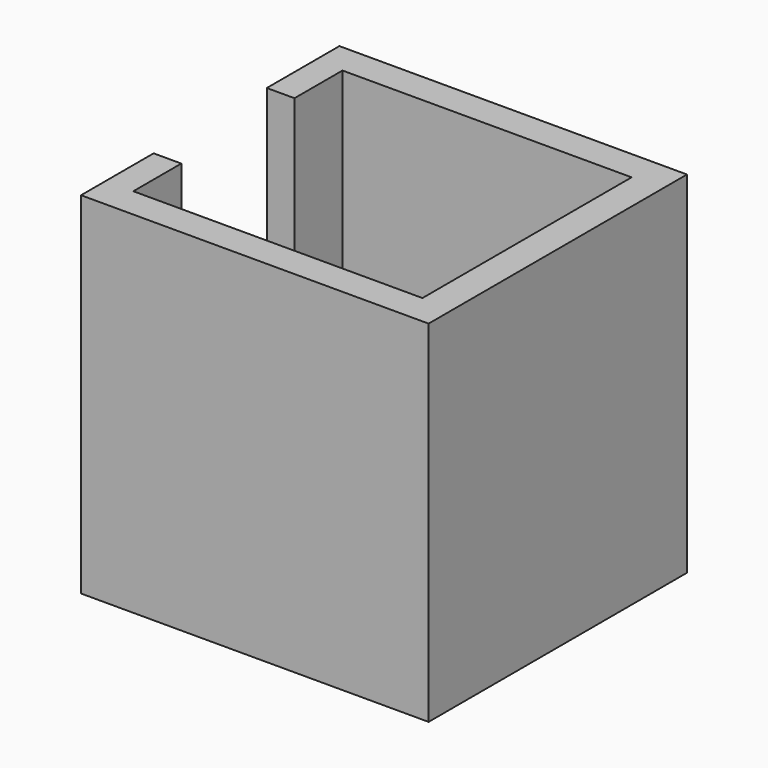
from build123d import *

# Parameters (mm, degrees)
SKETCH133_W             = 52.5
SKETCH133_H             = 56.5
SKETCH133_W_2           = 42.5
SKETCH133_H_2           = 47
PAD067_DEPTH            = 37
SKETCH131_W             = 23
SKETCH131_H             = 33
POCKET057_DEPTH         = 5
SKETCH135_W             = 52.5
SKETCH135_H             = 56.5
SKETCH135_W_2           = 47
SKETCH135_H_2           = 52
PAD066_DEPTH            = 20
BODY037_PLACEMENT_ANGLE = 90


with BuildPart() as part:
    # Sketch133 → Pad067 (new body)
    with BuildSketch(Plane.XY):
        with Locations((0, -26)):
            Rectangle(SKETCH133_W, SKETCH133_H)
        with Locations((0, -25.75)):
            Rectangle(SKETCH133_W_2, SKETCH133_H_2, mode=Mode.SUBTRACT)
    extrude(amount=PAD067_DEPTH)

    # Sketch131 (on Face1 of Pad067) → Pocket057 (cut)
    with BuildSketch(Plane(origin=(0, 2.25, 0), x_dir=(-1, 0, 0), z_dir=(0, 1, 0))):
        with Locations((0, 20.5)):
            Rectangle(SKETCH131_W, SKETCH131_H)
    extrude(amount=-POCKET057_DEPTH, mode=Mode.SUBTRACT)

    # Sketch135 (on Face2 of Pocket057) → Pad066 (join)
    with BuildSketch(Plane(origin=(0, 0, 0), x_dir=(1, 0, 0), z_dir=(0, 0, -1))):
        with Locations((0, 26)):
            Rectangle(SKETCH135_W, SKETCH135_H)
        with Locations((0, 26)):
            Rectangle(SKETCH135_W_2, SKETCH135_H_2, mode=Mode.SUBTRACT)
    extrude(amount=PAD066_DEPTH)


with BuildPart() as part_1:
    # Body037 placement: moved
    add(part.part.moved(Location((0, 0, 135))).rotate(Axis((0, 0, 135), (0, 0, 1)), BODY037_PLACEMENT_ANGLE))


solid = part_1.part
